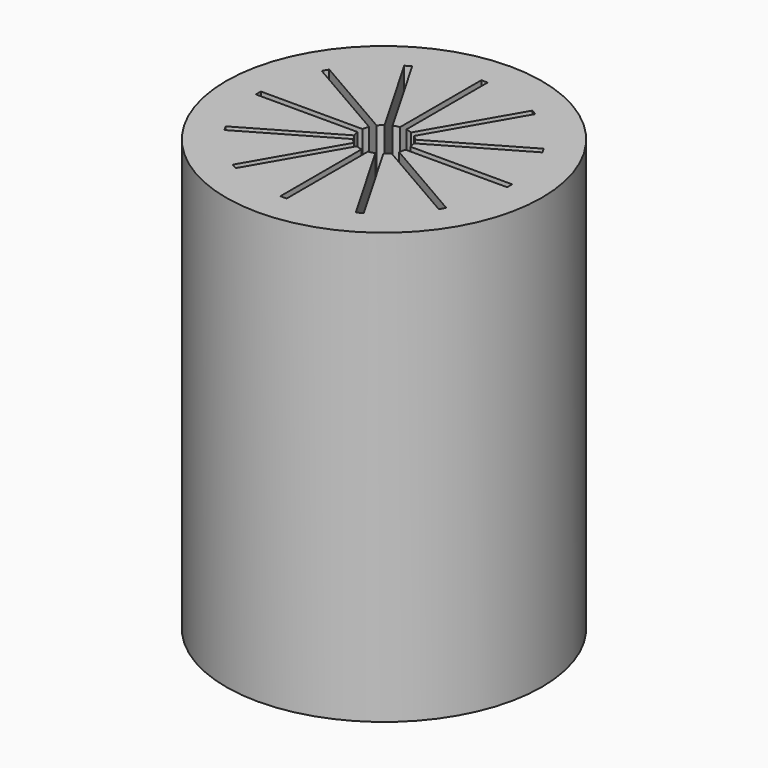
from build123d import *

# Parameters (mm, degrees)
F0_R     = 15.5321
F0_R_2   = 2.38125
F1_DEPTH = 42.3672
F3_DEPTH = 42.3672
F4_COUNT = 12
F4_ANGLE = 330


with BuildPart() as f1:
    # F0 (on Top) → F1 (new body)
    with BuildSketch(Plane.XY):
        Circle(F0_R)
        Circle(F0_R_2, mode=Mode.SUBTRACT)
    extrude(amount=F1_DEPTH)

    # F2 (on face) → F3 (cut, through all)
    with BuildSketch(Plane.XY.offset(42.3672)):
        with BuildLine():
            Line((-0.3108154952, 12.3531904437), (-0.3108154952, 2.3608780761))
            Line((-0.3108154952, 2.3608780761), (0, 2.3608780761))
            Line((0, 2.3608780761), (0.3108154952, 2.3608780761))
            Line((0.3108154952, 2.3608780761), (0.3108154952, 12.3531904437))
            ThreePointArc((0.3108154952, 12.3531904437), (0, 12.3571), (-0.3108154952, 12.3531904437))
        make_face()
    f3 = extrude(amount=-F3_DEPTH, mode=Mode.SUBTRACT)

    # F4: F3 ×12 about axis
    f4_axis = Axis((0, 0, 0), (0, 0, 1))
    for i in range(1, F4_COUNT):
        add(f3.rotate(f4_axis, i * F4_ANGLE / (F4_COUNT - 1)), mode=Mode.SUBTRACT)


solid = f1.part
